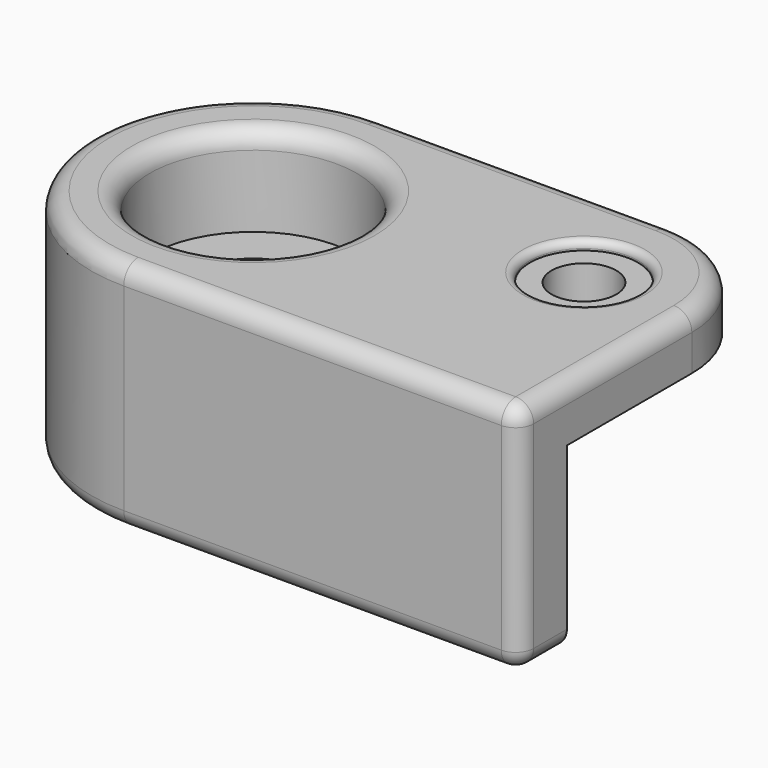
from build123d import *

# Parameters (mm, degrees)
CYLINDER114_R     = 1.8
CYLINDER114_DEPTH = 7
CYLINDER115_R     = 3
CYLINDER115_DEPTH = 7
PAD_DEPTH         = 30
BOX002_W          = 10
BOX002_H          = 10
BOX002_DEPTH      = 10
BOX003_W          = 17
BOX003_H          = 10
BOX003_DEPTH      = 10
CYLINDER018_R     = 5.75
CYLINDER018_DEPTH = 10
CYLINDER017_R     = 3.25
CYLINDER017_DEPTH = 10
CYLINDER113_R     = 5.75
CYLINDER113_DEPTH = 10
CYLINDER112_R     = 3.25
CYLINDER112_DEPTH = 10
BOX_W             = 22
BOX_H             = 18
BOX_DEPTH         = 13
CYLINDER111_R     = 9
CYLINDER111_DEPTH = 13
FILLET038_R       = 6
FILLET001_R       = 1
FILLET002_R       = 1
FILLET003_R       = 1
CYLINDER019_R     = 3
CYLINDER019_DEPTH = 3
FILLET004_R       = 0.4


with BuildPart() as m3cut:
    # Cylinder114 → Cylinder114 (new body)
    with BuildSketch(Plane(origin=(-4.5, -22, 62.5), x_dir=(1, 0, 0), z_dir=(0, 0, 1))):
        Circle(CYLINDER114_R)
    extrude(amount=CYLINDER114_DEPTH)


with BuildPart() as fusion009:
    # Cylinder115 → Cylinder115 (new body)
    with BuildSketch(Plane(origin=(-4.5, -22, 67.5), x_dir=(1, 0, 0), z_dir=(0, 0, 1))):
        Circle(CYLINDER115_R)
    extrude(amount=CYLINDER115_DEPTH)

    # Fusion009: union m3Cut
    add(m3cut.part)


with BuildPart() as body012:
    # Sketch066 → Pad (new body)
    with BuildSketch(Plane.XY):
        Polygon((-15.594093, -16.374565), (-15.071085, -20.857502), (-14.364655, -25.305099), (-13.862565, -26.78348), (-13.081532, -28.094496), (-12.161032, -29.126572), (-10.822123, -30.019178), (-9.315848, -30.577057), (-7.725893, -30.688633), (7.476312, -30.688633), (-15.876865, 6.281797), (-15.876865, -11.843776), align=None)
    extrude(amount=PAD_DEPTH)

    # Box002 → Box002 (join)
    with BuildSketch(Plane.XY):
        with Locations((5, 5)):
            Rectangle(BOX002_W, BOX002_H)
    extrude(amount=BOX002_DEPTH)


with BuildPart() as body012_1:
    # Body placement: moved
    add(body012.part.moved(Location((0, 0, 35))))


with BuildPart() as firstcuts:
    # Box003 → Box003 (new body)
    with BuildSketch(Plane(origin=(-10, -24, 55), x_dir=(1, 0, 0), z_dir=(0, 0, 1))):
        with Locations((8.5, 5)):
            Rectangle(BOX003_W, BOX003_H)
    extrude(amount=BOX003_DEPTH)

    # Fusion007: union Body012
    add(body012_1.part)


with BuildPart() as obj1:
    # Cylinder018 → Cylinder018 (new body)
    with BuildSketch(Plane(origin=(-23, 0, 69), x_dir=(1, 0, 0), z_dir=(0, 0, 1))):
        Circle(CYLINDER018_R)
    extrude(amount=CYLINDER018_DEPTH)


with BuildPart() as fusion065:
    # Cylinder017 → Cylinder017 (new body)
    with BuildSketch(Plane(origin=(-23, 0, 65), x_dir=(1, 0, 0), z_dir=(0, 0, 1))):
        Circle(CYLINDER017_R)
    extrude(amount=CYLINDER017_DEPTH)

    # Fusion065: union obj1
    add(obj1.part)


with BuildPart() as fusion065_1:
    # Fusion065 placement: moved
    add(fusion065.part.moved(Location((2.5, -25, -19.5))))


with BuildPart() as obj2:
    # Cylinder113 → Cylinder113 (new body)
    with BuildSketch(Plane(origin=(-23, 0, 69), x_dir=(1, 0, 0), z_dir=(0, 0, 1))):
        Circle(CYLINDER113_R)
    extrude(amount=CYLINDER113_DEPTH)


with BuildPart() as antennacuts:
    # Cylinder112 → Cylinder112 (new body)
    with BuildSketch(Plane(origin=(-23, 0, 65), x_dir=(1, 0, 0), z_dir=(0, 0, 1))):
        Circle(CYLINDER112_R)
    extrude(amount=CYLINDER112_DEPTH)

    # Fusion064: union obj2
    add(obj2.part)


with BuildPart() as antennacuts_1:
    # Fusion064 placement: moved
    add(antennacuts.part.moved(Location((2.5, -25, -6))))

    # Fusion006: union Fusion065
    add(fusion065_1.part)


with BuildPart() as cube:
    # Box → Box (new body)
    with BuildSketch(Plane(origin=(-20.5, -34, 56), x_dir=(1, 0, 0), z_dir=(0, 0, 1))):
        with Locations((11, 9)):
            Rectangle(BOX_W, BOX_H)
    extrude(amount=BOX_DEPTH)


with BuildPart() as cut001:
    # Cylinder111 → Cylinder111 (new body)
    with BuildSketch(Plane(origin=(-20.5, -25, 56), x_dir=(1, 0, 0), z_dir=(0, 0, 1))):
        Circle(CYLINDER111_R)
    extrude(amount=CYLINDER111_DEPTH)

    # Fusion063: union Cube
    add(cube.part)


with BuildPart() as cut001_1:
    # Fusion063 placement: moved
    add(cut001.part.moved(Location((0, 0, -1))))

    # Fillet038
    fillet038_edges = [cut001_1.edges().sort_by_distance(p)[0] for p in [
        (1.5, -16, 61.5),
    ]]
    fillet(fillet038_edges, radius=FILLET038_R)

    # Fillet001
    fillet001_edges = [cut001_1.edges().sort_by_distance(p)[0] for p in [
        (-12.5, -16, 55),
        (1.5, -28, 55),
        (-14.136039, -31.363961, 55),
        (-20.5, -16, 61.5),
        (1.5, -28, 68),
        (1.5, -34, 61.5),
        (-9.5, -34, 68),
        (-29.5, -25, 55),
        (-29.5, -25, 68),
    ]]
    fillet(fillet001_edges, radius=FILLET001_R)

    # Cut029: cut antennaCuts
    add(antennacuts_1.part, mode=Mode.SUBTRACT)

    # Fillet002
    fillet002_edges = [cut001_1.edges().sort_by_distance(p)[0] for p in [
        (-16.434136, -29.065864, 68),
        (-16.434136, -20.934136, 68),
    ]]
    fillet(fillet002_edges, radius=FILLET002_R)

    # Fillet003
    fillet003_edges = [cut001_1.edges().sort_by_distance(p)[0] for p in [
        (0.5, -27.5, 55),
        (1.207107, -33, 55.292893),
        (-26.25, -25, 55),
    ]]
    fillet(fillet003_edges, radius=FILLET003_R)

    # Cut001: cut firstCuts
    add(firstcuts.part, mode=Mode.SUBTRACT)


with BuildPart() as antennaholder:
    # Cylinder019 → Cylinder019 (new body)
    with BuildSketch(Plane(origin=(-4.5, -22, 62.5), x_dir=(1, 0, 0), z_dir=(0, 0, 1))):
        Circle(CYLINDER019_R)
    extrude(amount=CYLINDER019_DEPTH)

    # Fusion008: union Cut001
    add(cut001_1.part)

    # Cut002: cut Fusion009
    add(fusion009.part, mode=Mode.SUBTRACT)


with BuildPart() as antennaholder_1:
    # Cut002 placement: moved
    add(antennaholder.part.moved(Location((74.8, 0, -176.8))))

    # Fillet004
    fillet004_edges = [antennaholder_1.edges().sort_by_distance(p)[0] for p in [
        (67.3, -22, -108.8),
    ]]
    fillet(fillet004_edges, radius=FILLET004_R)


with BuildPart() as antennaholder_2:
    # Fillet004 placement: moved
    add(antennaholder_1.part.moved(Location((400, 0, -268.2))))


solid = antennaholder_2.part
